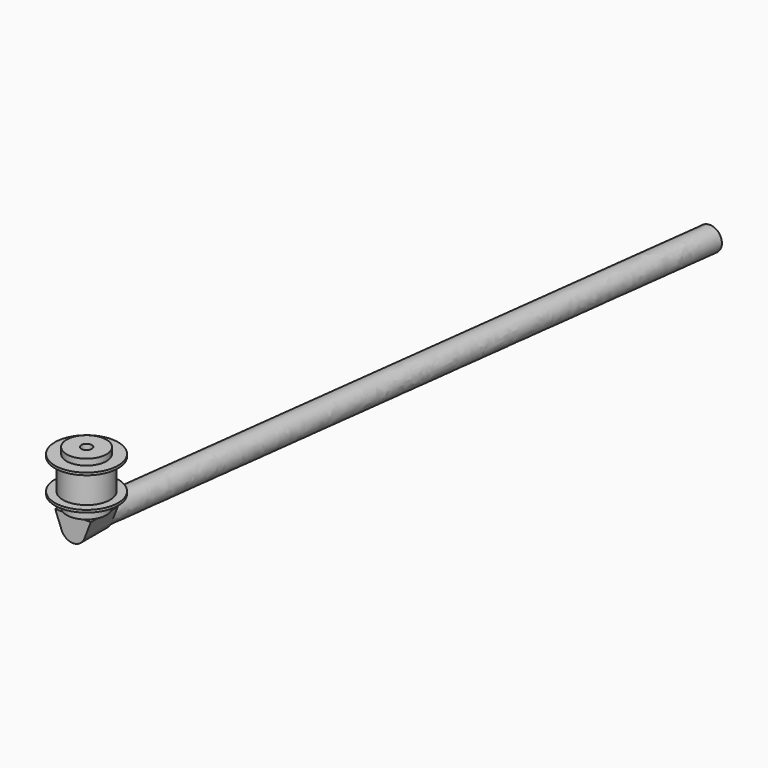
from build123d import *

# Parameters (mm, degrees)
F3_DEPTH = 138.684


with BuildPart() as f1:
    # F0 (on Front) → F1 (revolve)
    with BuildSketch(Plane.XZ):
        Polygon((-43.5030287504, -97.1511312574), (-43.5030287504, 342.8488687426), (-163.5030287504, 342.8488687426), (-163.5030287504, 292.8488687426), (-260.0357037038, 292.8488687426), (-260.0357037038, 272.8488687426), (-193.5030287504, 272.8488687426), (-193.5030287504, 22.8488687426), (-260.0357037038, 22.8488687426), (-260.0357037038, 2.8488687426), (-163.5030287504, 2.8488687426), (-163.5030287504, -97.1511312574), align=None)
    revolve(axis=Axis((0, 0, 46.6200804068), (0, 0, -1)))

    # F2 (on Front) → F3 (join, symmetric)
    with BuildSketch(Plane.XZ):
        with BuildLine():
            Line((-146.384075284, -97.1511312574), (-93.1543143876, -233.5142129609))
            ThreePointArc((-93.1543143876, -233.5142129609), (0, -297.1511312574), (93.1543143876, -233.5142129609))
            Line((93.1543143876, -233.5142129609), (146.384075284, -97.1511312574))
            Line((146.384075284, -97.1511312574), (-146.384075284, -97.1511312574))
        make_face()
    extrude(amount=F3_DEPTH, both=True)

    # F7: sweep along a path in F5
    with BuildLine(Plane.YZ) as f7_path:
        Line((176.0368590823, -185.2909773588), (6440.1268959045, -752.388715744))
    # F6 (on face) → F7 (sweep)
    with BuildSketch(Plane(origin=(0, 138.684, 0), x_dir=(-1, 0, 0), z_dir=(0, 1, 0))):
        with BuildLine():
            Line((-47.237353114, -97.1511312574), (47.237353114, -97.1511312574))
            ThreePointArc((47.237353114, -97.1511312574), (0, -85.2909773588), (-47.237353114, -97.1511312574))
        make_face()
        with BuildLine():
            ThreePointArc((-47.237353114, -97.1511312574), (-51.3627524992, -271.0923040135), (100, -185.2909773588))
            ThreePointArc((100, -185.2909773588), (85.8013266547, -133.9282248596), (47.237353114, -97.1511312574))
            Line((47.237353114, -97.1511312574), (-47.237353114, -97.1511312574))
        make_face()
    sweep(path=f7_path.line)


solid = f1.part
